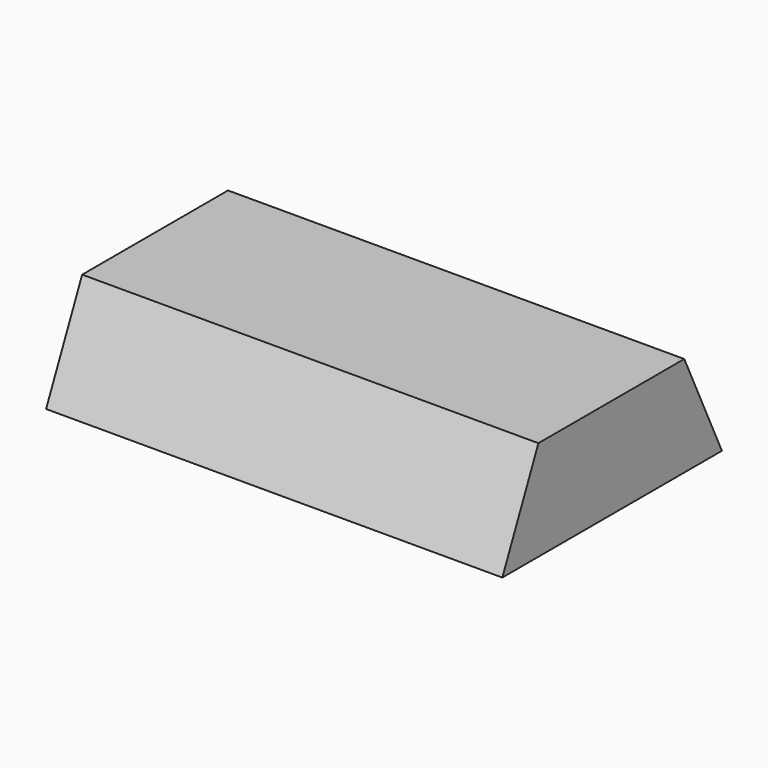
from build123d import *

# Parameters (mm, degrees)
PAD_DEPTH = 100


with BuildPart() as part:
    # Sketch → Pad (new body)
    with BuildSketch(Plane.YZ):
        Polygon((-20.068882, 19.950968), (19.892506, 19.950968), (30.205118, -1.963342), (-29.951807, -1.963342), align=None)
    extrude(amount=PAD_DEPTH)


solid = part.part
